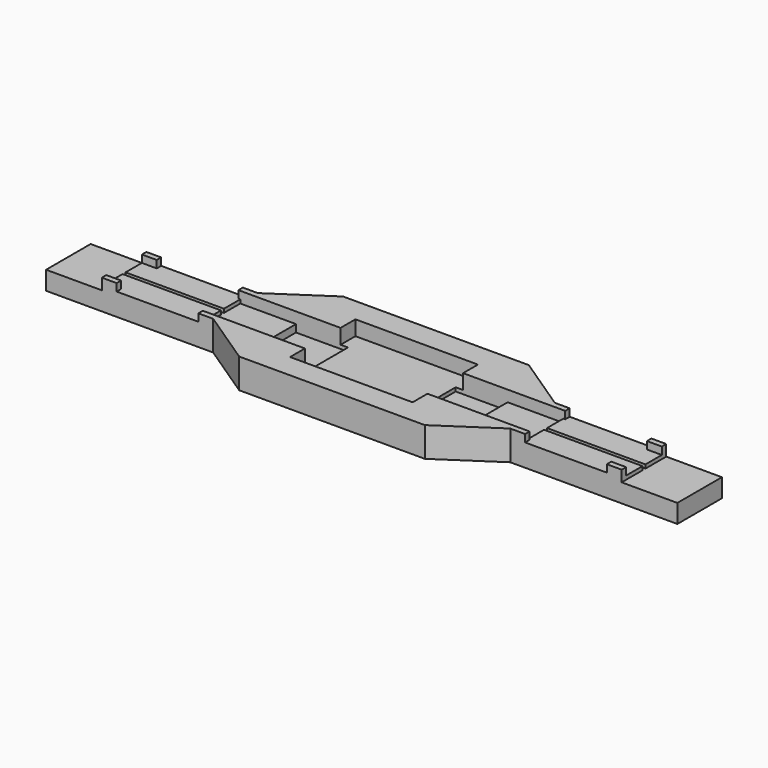
from build123d import *

# Parameters (mm, degrees)
F1_DEPTH  = 8
F2_W      = 15
F2_H      = 12
F2_W_2    = 4
F2_W_3    = 22
F2_W_4    = 0.5
F3_DEPTH  = 2
F4_DEPTH  = 3
F2_W_5    = 12
F2_W_6    = 2
F5_DEPTH  = 5
F6_DEPTH  = 4
F8_W      = 36.5
F8_H      = 1
F7_W      = 36.5
F7_H      = 1
F9_DEPTH  = 1
F2_H_2    = 1.5
F10_DEPTH = 3
F11_DEPTH = 2
F12_DEPTH = 2
F13_DEPTH = 3


with BuildPart() as f1:
    # F0 (on Top) → F1 (new body)
    with BuildSketch(Plane.XY):
        Polygon((-40, -7.5), (-25, -17.5), (25, -17.5), (40, -7.5), (85, -7.5), (85, 7.5), (40, 7.5), (25, 17.5), (-25, 17.5), (-40, 7.5), (-85, 7.5), (-85, -7.5), align=None)
    extrude(amount=F1_DEPTH)

    # F2 (on face) → F3 (cut)
    with BuildSketch(Plane.XY.offset(8)):
        with Locations((-77.5, 0)):
            Rectangle(F2_W, F2_H)
        with Locations((-68, 0)):
            Rectangle(F2_W_2, F2_H)
        with Locations((-55, 0)):
            Rectangle(F2_W_3, F2_H)
        with Locations((-43.75, 0)):
            Rectangle(F2_W_4, F2_H)
        with Locations((77.5, 0)):
            Rectangle(F2_W, F2_H)
        with Locations((68, 0)):
            Rectangle(F2_W_2, F2_H)
        with Locations((55, 0)):
            Rectangle(F2_W_3, F2_H)
        with Locations((43.75, 0)):
            Rectangle(F2_W_4, F2_H)
    extrude(amount=-F3_DEPTH, mode=Mode.SUBTRACT)

    # F2 (on face) → F4 (cut)
    with BuildSketch(Plane.XY.offset(8)):
        with Locations((-36, 0)):
            Rectangle(F2_W, F2_H)
        with Locations((36, 0)):
            Rectangle(F2_W, F2_H)
    extrude(amount=-F4_DEPTH, mode=Mode.SUBTRACT)

    # F2 (on face) → F5 (cut)
    with BuildSketch(Plane.XY.offset(8)):
        with Locations((-22.5, 0)):
            Rectangle(F2_W_5, F2_H)
        with Locations((-15.5, 0)):
            Rectangle(F2_W_6, F2_H)
        with Locations((15.5, 0)):
            Rectangle(F2_W_6, F2_H)
        with Locations((22.5, 0)):
            Rectangle(F2_W_5, F2_H)
    extrude(amount=-F5_DEPTH, mode=Mode.SUBTRACT)

    # F2 (on face) → F6 (cut)
    with BuildSketch(Plane.XY.offset(8)):
        Polygon((16.5, 11), (-16.5, 11), (-16.5, 6), (-14.5, 6), (-14.5, -6), (-16.5, -6), (-16.5, -11), (16.5, -11), (16.5, -6), (14.5, -6), (14.5, 6), (16.5, 6), align=None)
    extrude(amount=-F6_DEPTH, mode=Mode.SUBTRACT)

    # F8 (on face) + F7 (on face) → F9 (cut)
    with BuildSketch(Plane.XY.offset(6)):
        with Locations((61.75, 0)):
            Rectangle(F8_W, F8_H)
    with BuildSketch(Plane.XY.offset(6)):
        with Locations((-61.75, 0)):
            Rectangle(F7_W, F7_H)
    extrude(amount=-F9_DEPTH, mode=Mode.SUBTRACT)

    # F2 (on face) → F10 (cut)
    with BuildSketch(Plane.XY.offset(8)):
        with Locations((-77.5, 6.75)):
            Rectangle(F2_W, F2_H_2)
        with Locations((-77.5, 0)):
            Rectangle(F2_W, F2_H)
        with Locations((-77.5, -6.75)):
            Rectangle(F2_W, F2_H_2)
    extrude(amount=-F10_DEPTH, mode=Mode.SUBTRACT)

    # F2 (on face) → F11 (cut)
    with BuildSketch(Plane.XY.offset(8)):
        with Locations((-55, 6.75)):
            Rectangle(F2_W_3, F2_H_2)
        with Locations((-55, -6.75)):
            Rectangle(F2_W_3, F2_H_2)
    extrude(amount=-F11_DEPTH, mode=Mode.SUBTRACT)

    # F2 (on face) → F12 (cut)
    with BuildSketch(Plane.XY.offset(8)):
        with Locations((55, 6.75)):
            Rectangle(F2_W_3, F2_H_2)
        with Locations((55, -6.75)):
            Rectangle(F2_W_3, F2_H_2)
    extrude(amount=-F12_DEPTH, mode=Mode.SUBTRACT)

    # F2 (on face) → F13 (cut)
    with BuildSketch(Plane.XY.offset(8)):
        with Locations((77.5, 6.75)):
            Rectangle(F2_W, F2_H_2)
        with Locations((77.5, -6.75)):
            Rectangle(F2_W, F2_H_2)
        with Locations((77.5, 0)):
            Rectangle(F2_W, F2_H)
    extrude(amount=-F13_DEPTH, mode=Mode.SUBTRACT)


solid = f1.part
